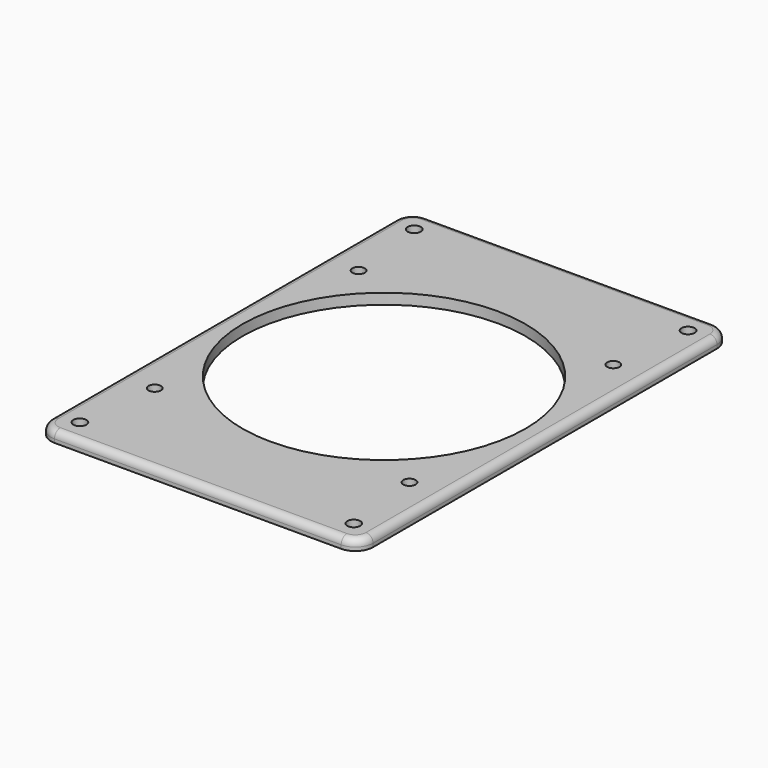
from build123d import *

# Parameters (mm, degrees)
F1_DEPTH = 3
F3_D     = 3.7
F5_R     = 40
F6_DEPTH = 25
F7_R     = 2
F8_D     = 3.5


with BuildPart() as f1:
    # F0 (on Top) → F1 (new body)
    with BuildSketch(Plane.XY):
        with BuildLine():
            Line((-26.741671, -33.577967), (54.258329, -33.577967))
            ThreePointArc((54.258329, -33.577967), (57.793863, -32.113501), (59.258329, -28.577967))
            Line((59.258329, -28.577967), (59.258329, 92.922033))
            ThreePointArc((59.258329, 92.922033), (57.793863, 96.457566), (54.258329, 97.922033))
            Line((54.258329, 97.922033), (-26.741671, 97.922033))
            ThreePointArc((-26.741671, 97.922033), (-30.277205, 96.457566), (-31.741671, 92.922033))
            Line((-31.741671, 92.922033), (-31.741671, -28.577967))
            ThreePointArc((-31.741671, -28.577967), (-30.277205, -32.113501), (-26.741671, -33.577967))
        make_face()
    extrude(amount=F1_DEPTH)

    # F3 (through all)
    with Locations(Plane.XY.offset(3)):
        with Locations((-24.941671, 91.222033), (52.458329, 91.222033), (52.458329, -26.877967), (-24.941671, -26.877967)):
            Hole(F3_D / 2)

    # F5 (on face) → F6 (cut)
    with BuildSketch(Plane.XY.offset(3)):
        with Locations((13.758329, 32.172033)):
            Circle(F5_R)
    extrude(amount=-F6_DEPTH, mode=Mode.SUBTRACT)

    # F7
    f7_edges = [f1.edges().sort_by_distance(p)[0] for p in [
        (-31.741671, 32.172033, 3),
        (13.758329, 97.922033, 3),
    ]]
    fillet(f7_edges, radius=F7_R)

    # F8 (through all)
    with Locations(Plane.XY.offset(3)):
        with Locations((-22.241671, 68.172033), (49.758329, 68.172033), (49.758329, -3.827967), (-22.241671, -3.827967)):
            Hole(F8_D / 2)


solid = f1.part
